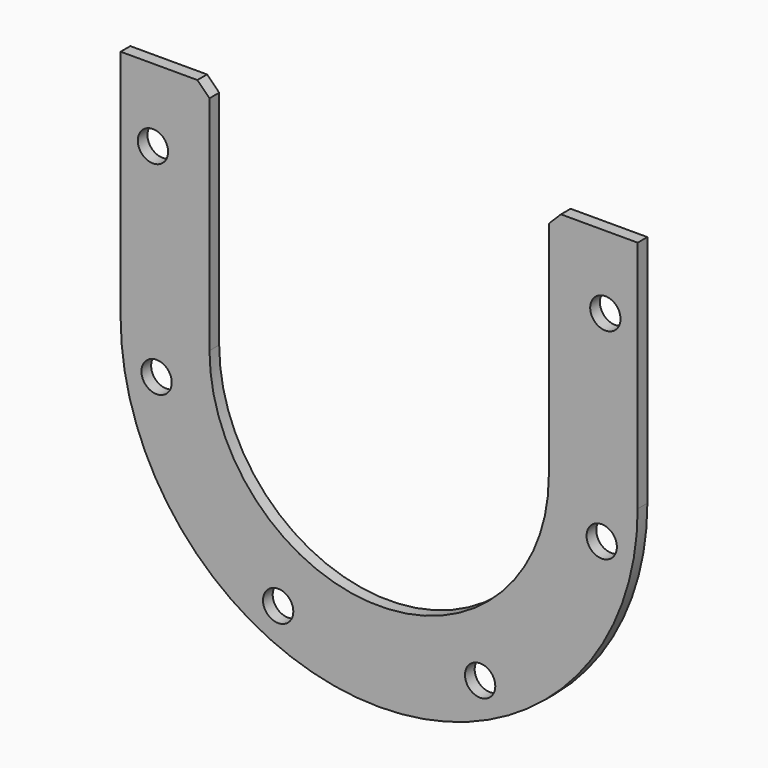
from build123d import *

# Parameters (mm, degrees)
F0_R     = 5.953125
F1_DEPTH = 4.7625


with BuildPart() as f1:
    # F0 (on Front) → F1 (new body)
    with BuildSketch(Plane.XZ):
        with BuildLine():
            Line((101.6, 4.7625), (101.6, 96.8375))
            Line((101.6, 96.8375), (71.4375, 96.8375))
            Line((71.4375, 96.8375), (66.675, 92.075))
            Line((66.675, 92.075), (66.675, 4.7625))
            ThreePointArc((66.675, 4.7625), (0, -61.9125), (-66.675, 4.7625))
            Line((-66.675, 4.7625), (-66.675, 92.075))
            Line((-66.675, 92.075), (-71.4375, 96.8375))
            Line((-71.4375, 96.8375), (-101.6, 96.8375))
            Line((-101.6, 96.8375), (-101.6, 4.7625))
            ThreePointArc((-101.6, 4.7625), (0, -96.8375), (101.6, 4.7625))
        make_face()
        with Locations((-39.6875, -74.786922)):
            Circle(F0_R, mode=Mode.SUBTRACT)
        with Locations((-87.471098, -11.1125)):
            Circle(F0_R, mode=Mode.SUBTRACT)
        with Locations((39.6875, -74.786922)):
            Circle(F0_R, mode=Mode.SUBTRACT)
        with Locations((87.471098, -11.1125)):
            Circle(F0_R, mode=Mode.SUBTRACT)
        with Locations((-88.9, 68.2625)):
            Circle(F0_R, mode=Mode.SUBTRACT)
        with Locations((88.9, 68.2625)):
            Circle(F0_R, mode=Mode.SUBTRACT)
    extrude(amount=F1_DEPTH)


solid = f1.part
